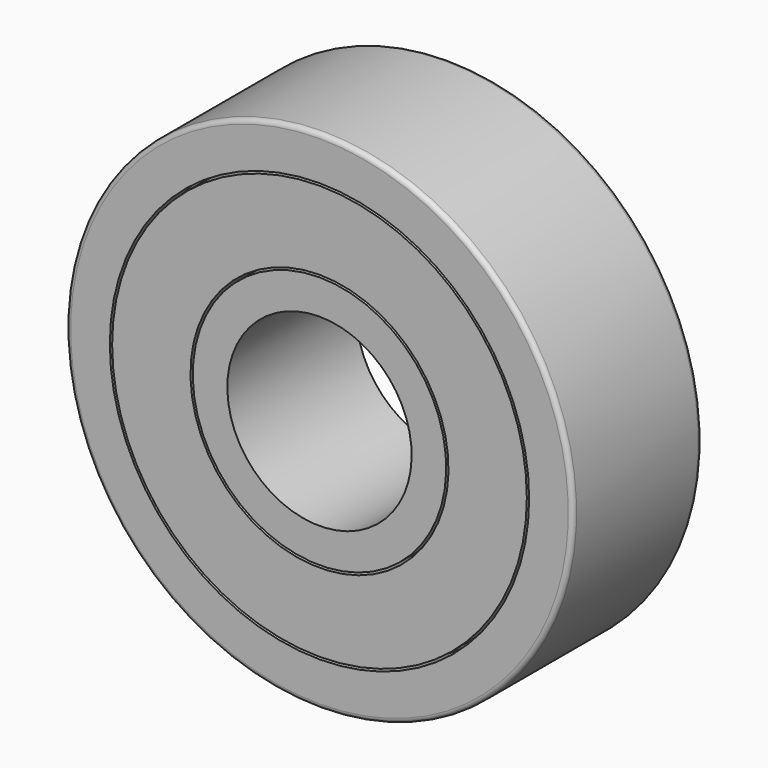
from build123d import *

# Parameters (mm, degrees)
SKETCH122_R             = 11
SKETCH122_R_2           = 4
PAD038_DEPTH            = 7
SKETCH124_R             = 5.6
SKETCH124_R_2           = 5.5
POCKET074_DEPTH         = 1.5
SKETCH123_R             = 5.6
SKETCH123_R_2           = 5.5
POCKET076_DEPTH         = 3
SKETCH120_R             = 9.1
SKETCH120_R_2           = 9
POCKET077_DEPTH         = 1
SKETCH121_R             = 9.1
SKETCH121_R_2           = 9
POCKET075_DEPTH         = 1
FILLET003_R             = 0.2
BODY029_PITCH_ANGLE     = -90
BODY029_PLACEMENT_ANGLE = 90


with BuildPart() as part:
    # Sketch122 → Pad038 (new body)
    with BuildSketch(Plane.XY):
        Circle(SKETCH122_R)
        Circle(SKETCH122_R_2, mode=Mode.SUBTRACT)
    extrude(amount=PAD038_DEPTH)

    # Sketch124 (on Face4 of Pad038) → Pocket074 (cut, symmetric)
    with BuildSketch(Plane.XY.offset(7)):
        Circle(SKETCH124_R)
        Circle(SKETCH124_R_2, mode=Mode.SUBTRACT)
    extrude(amount=POCKET074_DEPTH, both=True, mode=Mode.SUBTRACT)

    # Sketch123 (on Face2 of Pocket074) → Pocket076 (cut)
    with BuildSketch(Plane(origin=(0, 0, 0), x_dir=(1, 0, 0), z_dir=(0, 0, -1))):
        Circle(SKETCH123_R)
        Circle(SKETCH123_R_2, mode=Mode.SUBTRACT)
    extrude(amount=-POCKET076_DEPTH, mode=Mode.SUBTRACT)

    # Sketch120 (on Face3 of Pocket076) → Pocket077 (cut)
    with BuildSketch(Plane.XY.offset(7)):
        Circle(SKETCH120_R)
        Circle(SKETCH120_R_2, mode=Mode.SUBTRACT)
    extrude(amount=-POCKET077_DEPTH, mode=Mode.SUBTRACT)

    # Sketch121 (on Face2 of Pocket077) → Pocket075 (cut)
    with BuildSketch(Plane(origin=(0, 0, 0), x_dir=(1, 0, 0), z_dir=(0, 0, -1))):
        Circle(SKETCH121_R)
        Circle(SKETCH121_R_2, mode=Mode.SUBTRACT)
    extrude(amount=-POCKET075_DEPTH, mode=Mode.SUBTRACT)

    # Fillet003
    fillet003_edges = [part.edges().sort_by_distance(p)[0] for p in [
        (-11, 0, 0),
        (-11, 0, 7),
    ]]
    fillet(fillet003_edges, radius=FILLET003_R)


with BuildPart() as part_1:
    # Body029 pitch: moved
    add(part.part.rotate(Axis((0, 0, 0), (0, 1, 0)), BODY029_PITCH_ANGLE))


with BuildPart() as part_2:
    # Body029 placement: moved
    add(part_1.part.moved(Location((0, -55, 296.75))).rotate(Axis((0, -55, 296.75), (0, 0, 1)), BODY029_PLACEMENT_ANGLE))


solid = part_2.part
